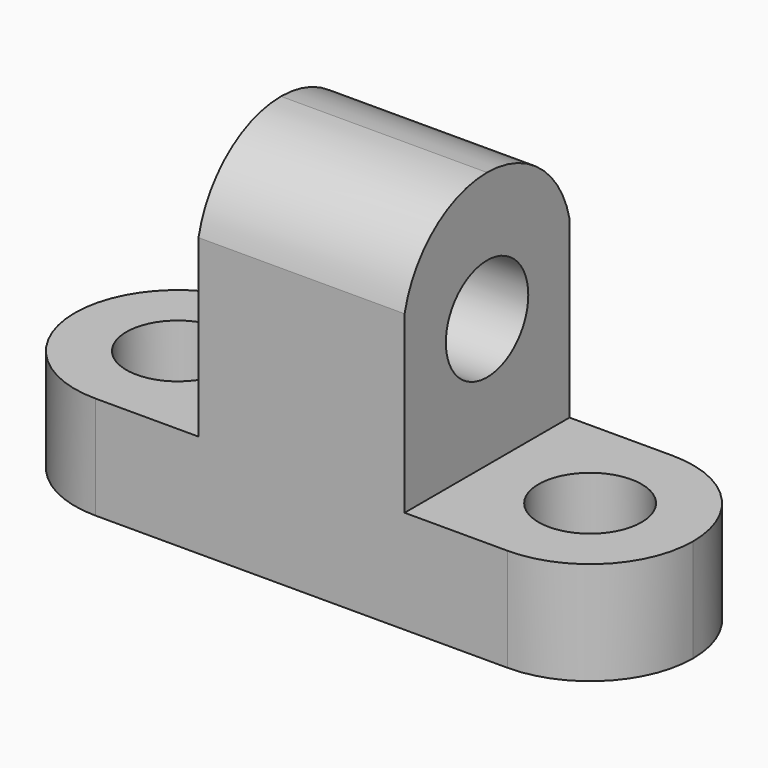
from build123d import *

# Parameters (mm, degrees)
F0_W     = 76.2
F0_H     = 44.45
F1_DEPTH = 25.4
F2_W     = 25.4
F2_H     = 31.75
F3_DEPTH = 25.4
F4_R     = 6.35
F5_DEPTH = 25.4
F6_R     = 6.35
F7_DEPTH = 25.4
F8_R     = 6.35
F9_DEPTH = 25.4


with BuildPart() as f1:
    # F0 (on Front) → F1 (new body)
    with BuildSketch(Plane.XZ):
        with Locations((38.1, 22.225)):
            Rectangle(F0_W, F0_H)
        with Locations((38.1, 22.225)):
            Rectangle(F0_W, F0_H)
    extrude(amount=F1_DEPTH)

    # F2 (on face) → F3 (cut)
    with BuildSketch(Plane.XZ.offset(25.4)):
        with Locations((12.7, 28.575)):
            Rectangle(F2_W, F2_H)
        with Locations((63.5, 28.575)):
            Rectangle(F2_W, F2_H)
    extrude(amount=-F3_DEPTH, mode=Mode.SUBTRACT)

    # F4 (on face) → F5 (cut)
    with BuildSketch(Plane.YZ.offset(50.8)):
        with Locations((-12.7, 28.575)):
            Circle(F4_R)
        with BuildLine():
            ThreePointArc((-12.7000002087, 44.45), (-4.5680322999, 41.5974597921), (0, 34.29))
            Line((0, 34.29), (0, 44.45))
            Line((0, 44.45), (-12.7000002087, 44.45))
        make_face()
        with BuildLine():
            ThreePointArc((-25.4, 34.29), (-20.831967863, 41.5974596617), (-12.7000002087, 44.45))
            Line((-12.7000002087, 44.45), (-25.4, 44.45))
            Line((-25.4, 44.45), (-25.4, 34.29))
        make_face()
    extrude(amount=-F5_DEPTH, mode=Mode.SUBTRACT)

    # F6 (on face) → F7 (cut)
    with BuildSketch(Plane.XY.offset(12.7)):
        with Locations((63.5, -12.7)):
            Circle(F6_R)
        with BuildLine():
            ThreePointArc((63.5, 0), (72.4802561211, -3.7197438789), (76.2, -12.7))
            Line((76.2, -12.7), (76.2, 0))
            Line((76.2, 0), (63.5, 0))
        make_face()
        with BuildLine():
            ThreePointArc((76.2, -12.7), (72.4802561211, -21.6802561211), (63.5, -25.4))
            Line((63.5, -25.4), (76.2, -25.4))
            Line((76.2, -25.4), (76.2, -12.7))
        make_face()
    extrude(amount=-F7_DEPTH, mode=Mode.SUBTRACT)

    # F8 (on face) → F9 (cut)
    with BuildSketch(Plane.XY.offset(12.7)):
        with BuildLine():
            ThreePointArc((0, -12.7), (3.7197438789, -3.7197438789), (12.7, 0))
            Line((12.7, 0), (0, 0))
            Line((0, 0), (0, -12.7))
        make_face()
        with Locations((12.7, -12.7)):
            Circle(F8_R)
        with BuildLine():
            ThreePointArc((12.7, -25.4), (3.7197438789, -21.6802561211), (0, -12.7))
            Line((0, -12.7), (0, -25.4))
            Line((0, -25.4), (12.7, -25.4))
        make_face()
    extrude(amount=-F9_DEPTH, mode=Mode.SUBTRACT)


solid = f1.part
